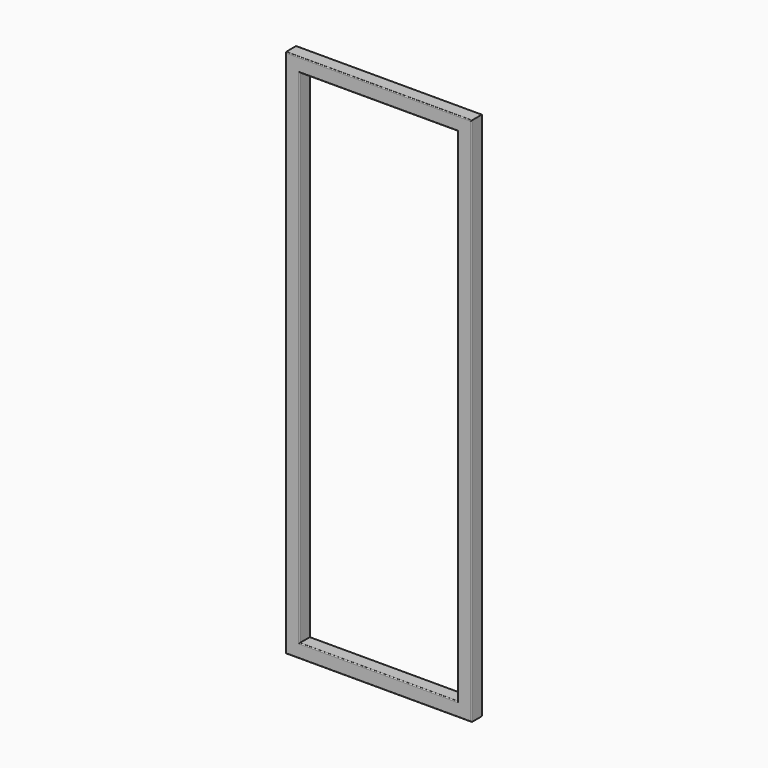
from build123d import *


with BuildPart() as f2:
    # F2: sweep along a path in F1
    with BuildLine(Plane.XZ) as f2_path:
        Line((0, 0), (0, 3000))
        Line((0, 3000), (1000, 3000))
        Line((1000, 3000), (1000, 0))
        Line((1000, 0), (0, 0))
    # F0 (on Top) → F2 (sweep)
    with BuildSketch(Plane.XY):
        with BuildLine():
            Line((-35, -39.4079514327), (35, -39.4079514327))
            ThreePointArc((35, -39.4079514327), (38.5355339059, -37.9434853386), (40, -34.4079514327))
            Line((40, -34.4079514327), (40, 34.4079514327))
            ThreePointArc((40, 34.4079514327), (38.5355339059, 37.9434853386), (35, 39.4079514327))
            Line((35, 39.4079514327), (-35, 39.4079514327))
            ThreePointArc((-35, 39.4079514327), (-38.5355339059, 37.9434853386), (-40, 34.4079514327))
            Line((-40, 34.4079514327), (-40, -34.4079514327))
            ThreePointArc((-40, -34.4079514327), (-38.5355339059, -37.9434853386), (-35, -39.4079514327))
        make_face()
    sweep(path=f2_path.line, transition=Transition.RIGHT)


solid = f2.part
